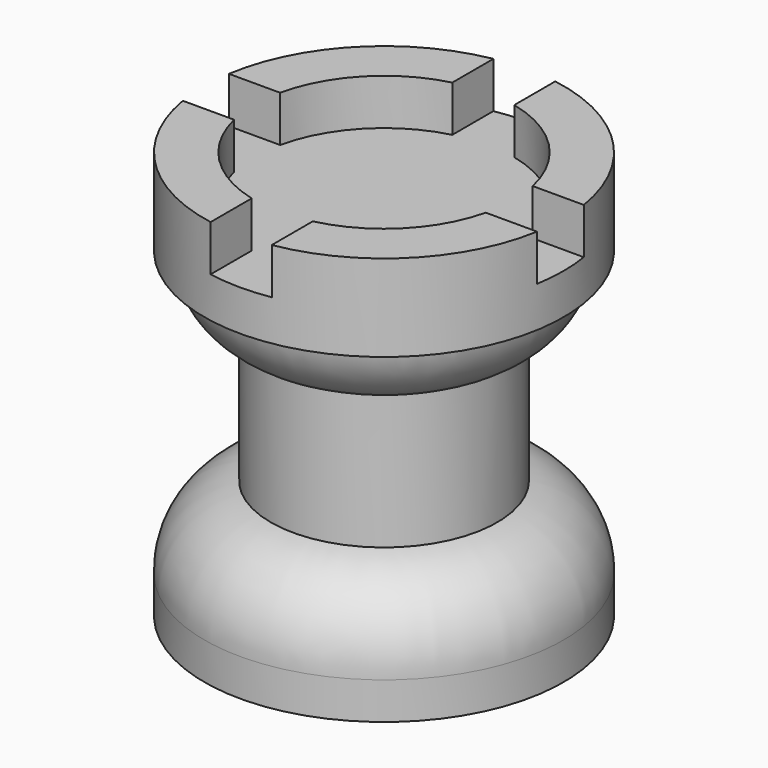
from build123d import *

# Parameters (mm, degrees)
F2_W     = 8.4896776825
F2_H     = 8.0091296695
F3_DEPTH = 6.35


with BuildPart() as f1:
    # F0 (on Front) → F1 (revolve)
    with BuildSketch(Plane.XZ):
        with BuildLine():
            Line((-24.7842427343, 0), (0, 0))
            Line((0, 0), (0, 56.3033334911))
            Line((0, 56.3033334911), (-24.7842427343, 56.3033334911))
            Line((-24.7842427343, 56.3033334911), (-24.7842427343, 44.3374402821))
            Line((-24.7842427343, 44.3374402821), (-22.8732544929, 44.3628020585))
            ThreePointArc((-22.8732544929, 44.3628020585), (-20.6233794189, 38.6463349976), (-15.6248472631, 35.0749753416))
            Line((-15.6248472631, 35.0749753416), (-15.6248472631, 16.4330303669))
            ThreePointArc((-15.6248472631, 16.4330303669), (-22.330766473, 12.4969846373), (-24.7842427343, 5.1184846088))
            Line((-24.7842427343, 5.1184846088), (-24.7842427343, 0))
        make_face()
    revolve(axis=Axis((0, 0, 28.1516667455), (0, 0, 1)))

    # F2 (on face) → F3 (cut)
    with BuildSketch(Plane.XY.offset(56.3033334911)):
        with BuildLine():
            Line((4.0728570893, 25.9603485465), (-4.4168205932, 25.9603485465))
            Line((-4.4168205932, 25.9603485465), (-4.4168205932, 17.2965058223))
            ThreePointArc((-4.4168205932, 17.2965058223), (-0.1770607755, 17.8506601361), (4.0728570893, 17.3807149721))
            Line((4.0728570893, 17.3807149721), (4.0728570893, 25.9603485465))
        make_face()
        with BuildLine():
            ThreePointArc((4.0728570893, 17.3807149721), (-0.1770607755, 17.8506601361), (-4.4168205932, 17.2965058223))
            Line((-4.4168205932, 17.2965058223), (-4.4168205932, 3.8551511243))
            Line((-4.4168205932, 3.8551511243), (4.0728570893, 3.8551511243))
            Line((4.0728570893, 3.8551511243), (4.0728570893, 17.3807149721))
        make_face()
        with BuildLine():
            Line((-4.4168205932, 3.8551511243), (-4.4168205932, 17.2965058223))
            ThreePointArc((-4.4168205932, 17.2965058223), (-12.8254291429, 12.4171568852), (-17.4302962574, 3.8551511243))
            Line((-17.4302962574, 3.8551511243), (-4.4168205932, 3.8551511243))
        make_face()
        with BuildLine():
            ThreePointArc((17.4302962574, 3.8551511243), (12.7016384893, 12.5437553188), (4.0728570893, 17.3807149721))
            Line((4.0728570893, 17.3807149721), (4.0728570893, 3.8551511243))
            Line((4.0728570893, 3.8551511243), (17.4302962574, 3.8551511243))
        make_face()
        with BuildLine():
            Line((-4.4168205932, -4.1539785452), (-4.4168205932, 3.8551511243))
            Line((-4.4168205932, 3.8551511243), (-17.4302962574, 3.8551511243))
            ThreePointArc((-17.4302962574, 3.8551511243), (-17.8508798192, -0.153321532), (-17.3615056967, -4.1539785452))
            Line((-17.3615056967, -4.1539785452), (-4.4168205932, -4.1539785452))
        make_face()
        with BuildLine():
            ThreePointArc((-17.3615056967, -4.1539785452), (-17.8508798192, -0.153321532), (-17.4302962574, 3.8551511243))
            Line((-17.4302962574, 3.8551511243), (-28.2840281725, 3.8551511243))
            Line((-28.2840281725, 3.8551511243), (-28.2840281725, -4.1539785452))
            Line((-28.2840281725, -4.1539785452), (-17.3615056967, -4.1539785452))
        make_face()
        with BuildLine():
            Line((17.4302962574, 3.8551511243), (4.0728570893, 3.8551511243))
            Line((4.0728570893, 3.8551511243), (4.0728570893, -4.1539785452))
            Line((4.0728570893, -4.1539785452), (17.3615056967, -4.1539785452))
            ThreePointArc((17.3615056967, -4.1539785452), (17.7286068375, -2.0913912627), (17.8515382478, 0))
            ThreePointArc((17.8515382478, 0), (17.7459152782, 1.9390484139), (17.4302962574, 3.8551511243))
        make_face()
        with BuildLine():
            Line((30.1826205105, 3.8551511243), (17.4302962574, 3.8551511243))
            ThreePointArc((17.4302962574, 3.8551511243), (17.7459152782, 1.9390484139), (17.8515382478, 0))
            ThreePointArc((17.8515382478, 0), (17.7286068375, -2.0913912627), (17.3615056967, -4.1539785452))
            Line((17.3615056967, -4.1539785452), (30.1826205105, -4.1539785452))
            Line((30.1826205105, -4.1539785452), (30.1826205105, 3.8551511243))
        make_face()
        with BuildLine():
            Line((4.0728570893, -4.1539785452), (-4.4168205932, -4.1539785452))
            Line((-4.4168205932, -4.1539785452), (-4.4168205932, -17.2965058223))
            ThreePointArc((-4.4168205932, -17.2965058223), (-0.1770607755, -17.8506601361), (4.0728570893, -17.3807149721))
            Line((4.0728570893, -17.3807149721), (4.0728570893, -4.1539785452))
        make_face()
        with BuildLine():
            Line((-4.4168205932, -17.2965058223), (-4.4168205932, -4.1539785452))
            Line((-4.4168205932, -4.1539785452), (-17.3615056967, -4.1539785452))
            ThreePointArc((-17.3615056967, -4.1539785452), (-12.7183088422, -12.5268526777), (-4.4168205932, -17.2965058223))
        make_face()
        with BuildLine():
            Line((17.3615056967, -4.1539785452), (4.0728570893, -4.1539785452))
            Line((4.0728570893, -4.1539785452), (4.0728570893, -17.3807149721))
            ThreePointArc((4.0728570893, -17.3807149721), (12.5934354383, -12.6523832409), (17.3615056967, -4.1539785452))
        make_face()
        with BuildLine():
            ThreePointArc((4.0728570893, -17.3807149721), (-0.1770607755, -17.8506601361), (-4.4168205932, -17.2965058223))
            Line((-4.4168205932, -17.2965058223), (-4.4168205932, -27.8610046953))
            Line((-4.4168205932, -27.8610046953), (4.0728570893, -27.8610046953))
            Line((4.0728570893, -27.8610046953), (4.0728570893, -17.3807149721))
        make_face()
        with Locations((-0.1719817519, -0.1494137105)):
            Rectangle(F2_W, F2_H)
    extrude(amount=-F3_DEPTH, mode=Mode.SUBTRACT)


solid = f1.part
